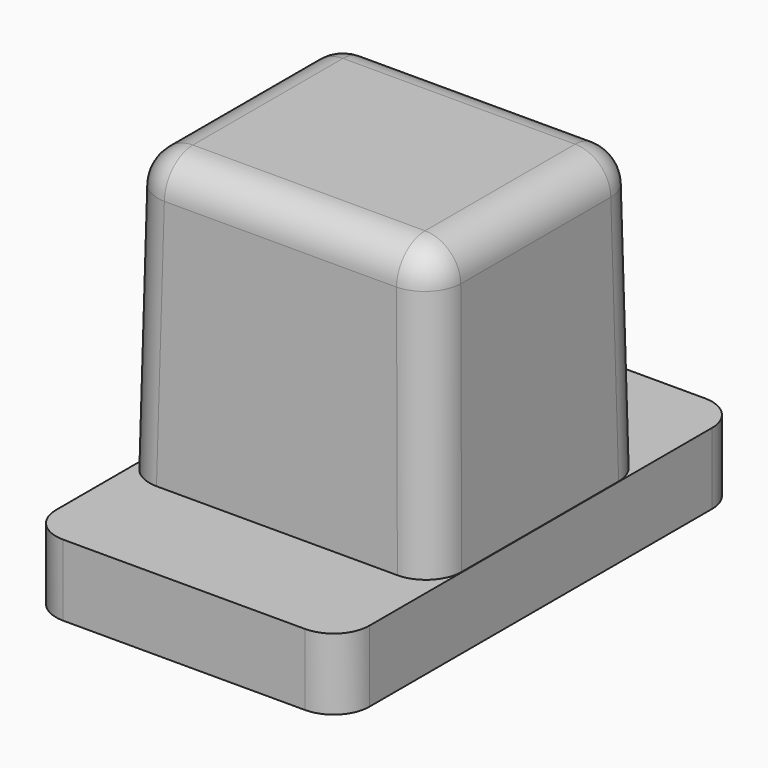
from build123d import *

# Parameters (mm, degrees)
F0_W     = 8.75
F0_H     = 7.5
F1_DEPTH = 8
F1_TAPER = 1
F2_W     = 8.7793770789
F2_H     = 14
F3_DEPTH = 2
F4_R     = 1


with BuildPart() as f1:
    # F0 (on Top) → F1 (new body)
    with BuildSketch(Plane.XY):
        Rectangle(F0_W, F0_H)
    extrude(amount=F1_DEPTH, taper=F1_TAPER)

    # F2 (on face) → F3 (join)
    with BuildSketch(Plane(origin=(0, 0, 0), x_dir=(1, 0, 0), z_dir=(0, 0, -1))):
        Rectangle(F2_W, F2_H)
    extrude(amount=F3_DEPTH)

    # F4
    f4_edges = [f1.edges().sort_by_distance(p)[0] for p in [
        (0, -3.610359, 8),
        (4.235359, 0, 8),
        (0, 3.610359, 8),
        (-4.235359, 0, 8),
        (4.30518, -3.68018, 4),
        (-4.30518, -3.68018, 4),
        (-4.30518, 3.68018, 4),
        (4.30518, 3.68018, 4),
        (4.389689, -7, -1),
        (-4.389689, -7, -1),
        (4.389689, 7, -1),
        (-4.389689, 7, -1),
    ]]
    fillet(f4_edges, radius=F4_R)


solid = f1.part
